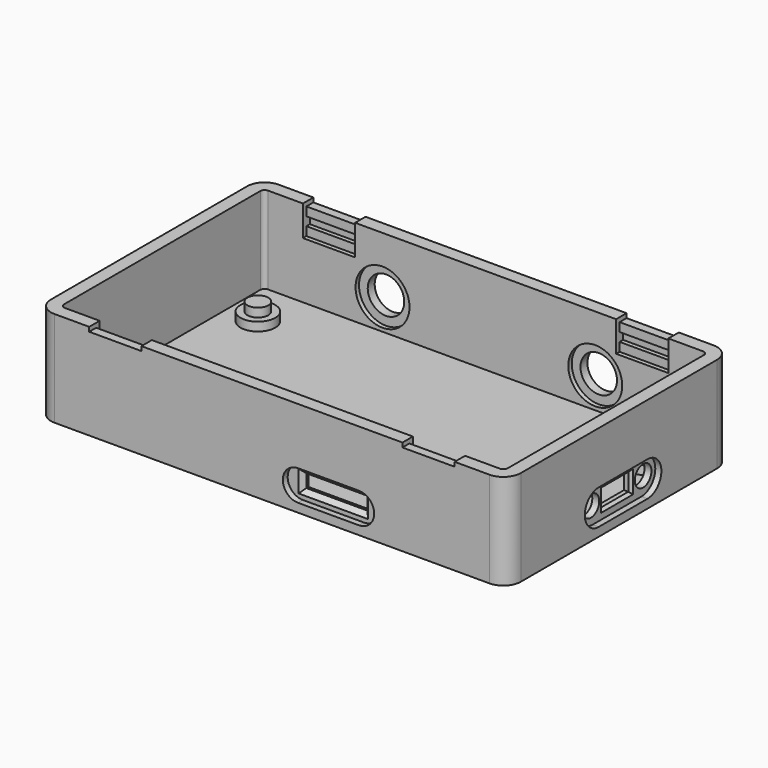
from build123d import *

# Parameters (mm, degrees)
SKETCH_W        = 108
SKETCH_H        = 64.4
PAD_DEPTH       = 22
SKETCH001_W     = 102
SKETCH001_H     = 58.4
POCKET_DEPTH    = 20
SKETCH002_R     = 4
PAD001_DEPTH    = 2
SKETCH003_R     = 2.4
PAD002_DEPTH    = 4
SKETCH004_R     = 4.2
SKETCH004_W     = 12
SKETCH004_H     = 1
POCKET001_DEPTH = 3
SKETCH005_W     = 12
SKETCH005_H     = 1
SKETCH005_W_2   = 14
SKETCH005_H_2   = 3
POCKET002_DEPTH = 3
SKETCH006_R     = 2.4
SKETCH006_W     = 8
SKETCH006_H     = 4
POCKET003_DEPTH = 3
SKETCH007_W     = 12
SKETCH007_H     = 2
POCKET004_DEPTH = 2
SKETCH008_W     = 12
SKETCH008_H     = 2
POCKET005_DEPTH = 2
SKETCH009_W     = 12
SKETCH009_H     = 1
POCKET006_DEPTH = 7
POCKET007_DEPTH = 1.4
POCKET008_DEPTH = 1.4
FILLET_R        = 4
FILLET001_R     = 1
CHAMFER_SIZE    = 0.6
CHAMFER001_SIZE = 1
SKETCH012_R     = 6.2
POCKET009_DEPTH = 1


with BuildPart() as part:
    # Sketch → Pad (new body)
    with BuildSketch(Plane.XY):
        Rectangle(SKETCH_W, SKETCH_H)
    extrude(amount=PAD_DEPTH)

    # Sketch001 (on Face6 of Pad) → Pocket (cut)
    with BuildSketch(Plane.XY.offset(22)):
        Rectangle(SKETCH001_W, SKETCH001_H)
    extrude(amount=-POCKET_DEPTH, mode=Mode.SUBTRACT)

    # Sketch002 (on Face11 of Pocket) → Pad001 (join)
    with BuildSketch(Plane.XY.offset(2)):
        with Locations((-43.71, 18.4)):
            Circle(SKETCH002_R)
        with Locations((45.75, 18.4)):
            Circle(SKETCH002_R)
        with Locations((45.75, -18.4)):
            Circle(SKETCH002_R)
        with Locations((-43.71, -18.4)):
            Circle(SKETCH002_R)
    extrude(amount=PAD001_DEPTH)

    # Sketch003 (on Face11 of Pad001) → Pad002 (join)
    with BuildSketch(Plane.XY.offset(2)):
        with Locations((-43.71, 18.4)):
            Circle(SKETCH003_R)
        with Locations((45.75, 18.4)):
            Circle(SKETCH003_R)
        with Locations((45.75, -18.4)):
            Circle(SKETCH003_R)
        with Locations((-43.71, -18.4)):
            Circle(SKETCH003_R)
    extrude(amount=PAD002_DEPTH)

    # Sketch004 (on Face1 of Pad002) → Pocket001 (cut)
    with BuildSketch(Plane(origin=(0, 32.2, 0), x_dir=(-1, 0, 0), z_dir=(0, 1, 0))):
        with Locations((-25.2, 9)):
            Circle(SKETCH004_R)
        with Locations((23.702, 9)):
            Circle(SKETCH004_R)
        with Locations((-36, 21.5)):
            Rectangle(SKETCH004_W, SKETCH004_H)
        with Locations((36, 21.5)):
            Rectangle(SKETCH004_W, SKETCH004_H)
    extrude(amount=-POCKET001_DEPTH, mode=Mode.SUBTRACT)

    # Sketch005 (on Face15 of Pocket001) → Pocket002 (cut)
    with BuildSketch(Plane.XZ.offset(32.2)):
        with Locations((-36, 21.5)):
            Rectangle(SKETCH005_W, SKETCH005_H)
        with Locations((36, 21.5)):
            Rectangle(SKETCH005_W, SKETCH005_H)
        with Locations((13, 5.5)):
            Rectangle(SKETCH005_W_2, SKETCH005_H_2)
    extrude(amount=-POCKET002_DEPTH, mode=Mode.SUBTRACT)

    # Sketch006 (on Face3 of Pocket002) → Pocket003 (cut)
    with BuildSketch(Plane.YZ.offset(54)):
        with Locations((-6.3, 6)):
            Circle(SKETCH006_R)
        with Locations((8.7, 6)):
            Circle(SKETCH006_R)
        with Locations((1.2, 6)):
            Rectangle(SKETCH006_W, SKETCH006_H)
    extrude(amount=-POCKET003_DEPTH, mode=Mode.SUBTRACT)

    # Sketch007 (on Face23 of Pocket003) → Pocket004 (cut)
    with BuildSketch(Plane.XZ.offset(-29.2)):
        with Locations((-36, 18)):
            Rectangle(SKETCH007_W, SKETCH007_H)
        with Locations((36, 18)):
            Rectangle(SKETCH007_W, SKETCH007_H)
    extrude(amount=-POCKET004_DEPTH, mode=Mode.SUBTRACT)

    # Sketch008 (on Face25 of Pocket004) → Pocket005 (cut)
    with BuildSketch(Plane(origin=(0, -29.2, 0), x_dir=(-1, 0, 0), z_dir=(0, 1, 0))):
        with Locations((-36, 18)):
            Rectangle(SKETCH008_W, SKETCH008_H)
        with Locations((36, 18)):
            Rectangle(SKETCH008_W, SKETCH008_H)
    extrude(amount=-POCKET005_DEPTH, mode=Mode.SUBTRACT)

    # Sketch009 (on Face31 of Pocket005) → Pocket006 (cut)
    with BuildSketch(Plane.XY.offset(22)):
        with Locations((-36, 29.7)):
            Rectangle(SKETCH009_W, SKETCH009_H)
        with Locations((36, 29.7)):
            Rectangle(SKETCH009_W, SKETCH009_H)
        with Locations((36, -29.7)):
            Rectangle(SKETCH009_W, SKETCH009_H)
        with Locations((-36, -29.7)):
            Rectangle(SKETCH009_W, SKETCH009_H)
    extrude(amount=-POCKET006_DEPTH, mode=Mode.SUBTRACT)

    # Sketch010 (on Face16 of Pocket006) → Pocket007 (cut)
    with BuildSketch(Plane.XZ.offset(32.2)):
        with BuildLine():
            ThreePointArc((6, 9), (2.5, 5.5), (6, 2))
            Line((6, 2), (20, 2))
            ThreePointArc((20, 2), (23.5, 5.5), (20, 9))
            Line((6, 9), (20, 9))
        make_face()
    extrude(amount=-POCKET007_DEPTH, mode=Mode.SUBTRACT)

    # Sketch011 (on Face3 of Pocket007) → Pocket008 (cut)
    with BuildSketch(Plane.YZ.offset(54)):
        with BuildLine():
            ThreePointArc((-5.8, 10), (-9.8, 6), (-5.8, 2))
            Line((-5.8, 2), (8.2, 2))
            ThreePointArc((8.2, 2), (12.2, 6), (8.2, 10))
            Line((-5.8, 10), (8.2, 10))
        make_face()
    extrude(amount=-POCKET008_DEPTH, mode=Mode.SUBTRACT)

    # Fillet
    fillet_edges = [part.edges().sort_by_distance(p)[0] for p in [
        (54, -32.2, 11),
        (54, 32.2, 11),
        (-54, 32.2, 11),
        (-54, -32.2, 11),
    ]]
    fillet(fillet_edges, radius=FILLET_R)

    # Fillet001
    fillet001_edges = [part.edges().sort_by_distance(p)[0] for p in [
        (-51, 29.2, 12),
        (-51, -29.2, 12),
        (51, -29.2, 12),
        (51, 29.2, 12),
    ]]
    fillet(fillet001_edges, radius=FILLET001_R)

    # Chamfer
    chamfer_edges = [part.edges().sort_by_distance(p)[0] for p in [
        (52.6, 1.2, 8),
        (52.6, -2.8, 6),
        (52.6, 5.2, 6),
        (52.6, 1.2, 4),
    ]]
    chamfer(chamfer_edges, length=CHAMFER_SIZE)

    # Chamfer001
    chamfer001_edges = [part.edges().sort_by_distance(p)[0] for p in [
        (13, -30.8, 7),
        (6, -30.8, 5.5),
        (13, -30.8, 4),
        (20, -30.8, 5.5),
    ]]
    chamfer(chamfer001_edges, length=CHAMFER001_SIZE)

    # Sketch012 (on Face43 of Chamfer001) → Pocket009 (cut)
    with BuildSketch(Plane.XZ.offset(-29.2)):
        with Locations((-23.702, 9)):
            Circle(SKETCH012_R)
        with Locations((25.2, 9)):
            Circle(SKETCH012_R)
    extrude(amount=-POCKET009_DEPTH, mode=Mode.SUBTRACT)


solid = part.part
